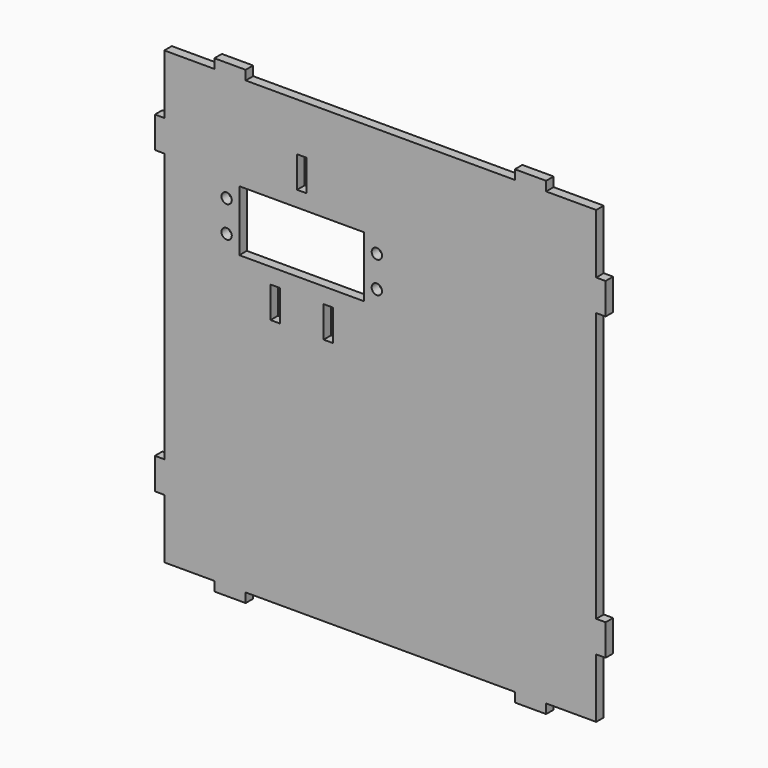
from build123d import *

# Parameters (mm, degrees)
F0_R     = 1.65
F0_W     = 2.98
F0_H     = 10
F0_W_2   = 39.9
F0_H_2   = 19.4
F1_DEPTH = 3


with BuildPart() as f1:
    # F0 (on Front) → F1 (new body)
    with BuildSketch(Plane.XZ):
        Polygon((43, -75), (53, -75), (53, -72), (69, -72), (69, -53), (72, -53), (72, -43), (69, -43), (69, 43), (72, 43), (72, 53), (69, 53), (69, 72), (53, 72), (53, 75), (43, 75), (43, 72), (-43, 72), (-43, 75), (-53, 75), (-53, 72), (-69, 72), (-69, 53), (-72, 53), (-72, 43), (-69, 43), (-69, -43), (-72, -43), (-72, -53), (-69, -53), (-69, -72), (-53, -72), (-53, -75), (-43, -75), (-43, -72), (43, -72), align=None)
        with Locations((-49.085218, 26.901253)):
            Circle(F0_R, mode=Mode.SUBTRACT)
        with Locations((-49.085218, 36.901253)):
            Circle(F0_R, mode=Mode.SUBTRACT)
        with Locations((-33.565757, 12.201253)):
            Rectangle(F0_W, F0_H, mode=Mode.SUBTRACT)
        with Locations((-16.60468, 12.201253)):
            Rectangle(F0_W, F0_H, mode=Mode.SUBTRACT)
        with Locations((-25.085218, 31.901253)):
            Rectangle(F0_W_2, F0_H_2, mode=Mode.SUBTRACT)
        with Locations((-1.085218, 26.901253)):
            Circle(F0_R, mode=Mode.SUBTRACT)
        with Locations((-1.085218, 36.901253)):
            Circle(F0_R, mode=Mode.SUBTRACT)
        with Locations((-25.085218, 51.601253)):
            Rectangle(F0_W, F0_H, mode=Mode.SUBTRACT)
    extrude(amount=F1_DEPTH)


solid = f1.part
